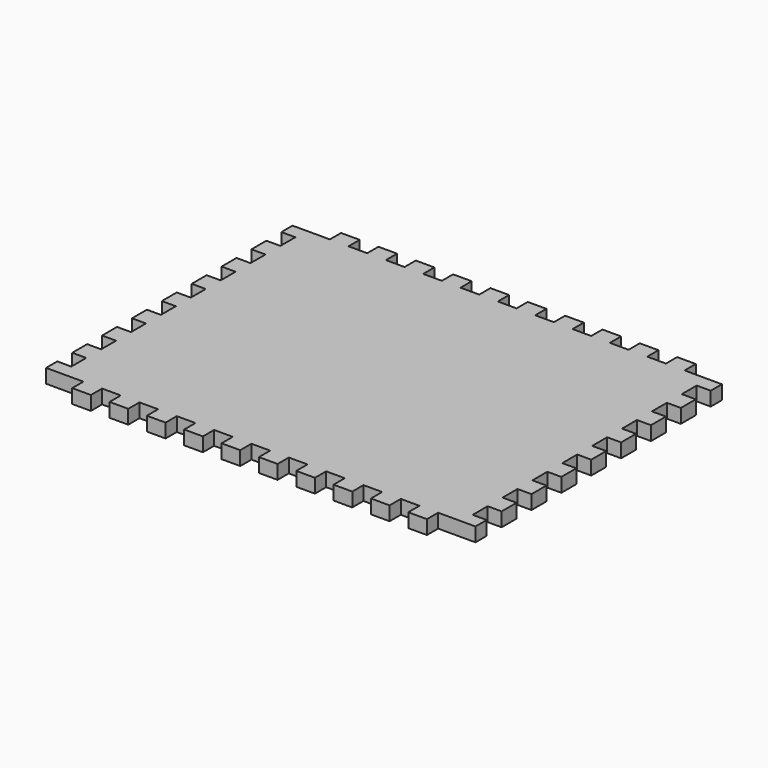
from build123d import *

# Parameters (mm, degrees)
F1_DEPTH = 9.525


with BuildPart() as f1:
    # F0 (on Top) → F1 (new body)
    with BuildSketch(Plane.XY):
        Polygon((63.5, 0), (50.8, 0), (50.8, -9.525), (38.1, -9.525), (38.1, 0), (25.4, 0), (25.4, -9.525), (0, -9.525), (0, -19.05), (9.525, -19.05), (9.525, -31.75), (0, -31.75), (0, -44.45), (9.525, -44.45), (9.525, -57.15), (0, -57.15), (0, -69.85), (9.525, -69.85), (9.525, -82.55), (0, -82.55), (0, -95.25), (9.525, -95.25), (9.525, -107.95), (0, -107.95), (0, -120.65), (9.525, -120.65), (9.525, -133.35), (0, -133.35), (0, -146.05), (9.525, -146.05), (9.525, -158.75), (0, -158.75), (0, -171.45), (9.525, -171.45), (9.525, -184.15), (0, -184.15), (0, -196.85), (9.525, -196.85), (9.525, -209.55), (0, -209.55), (0, -219.075), (25.4, -219.075), (25.4, -228.6), (38.1, -228.6), (38.1, -219.075), (50.8, -219.075), (50.8, -228.6), (63.5, -228.6), (63.5, -219.075), (76.2, -219.075), (76.2, -228.6), (88.9, -228.6), (88.9, -219.075), (101.6, -219.075), (101.6, -228.6), (114.3, -228.6), (114.3, -219.075), (127, -219.075), (127, -228.6), (139.7, -228.6), (139.7, -219.075), (152.4, -219.075), (152.4, -228.6), (165.1, -228.6), (165.1, -219.075), (177.8, -219.075), (177.8, -228.6), (190.5, -228.6), (190.5, -219.075), (203.2, -219.075), (203.2, -228.6), (215.9, -228.6), (215.9, -219.075), (228.6, -219.075), (228.6, -228.6), (241.3, -228.6), (241.3, -219.075), (254, -219.075), (254, -228.6), (266.7, -228.6), (266.7, -219.075), (292.1, -219.075), (292.1, -209.55), (282.575, -209.55), (282.575, -196.85), (292.1, -196.85), (292.1, -184.15), (282.575, -184.15), (282.575, -171.45), (292.1, -171.45), (292.1, -158.75), (282.575, -158.75), (282.575, -146.05), (292.1, -146.05), (292.1, -133.35), (282.575, -133.35), (282.575, -120.65), (292.1, -120.65), (292.1, -107.95), (282.575, -107.95), (282.575, -95.25), (292.1, -95.25), (292.1, -82.55), (282.575, -82.55), (282.575, -69.85), (292.1, -69.85), (292.1, -57.15), (282.575, -57.15), (282.575, -44.45), (292.1, -44.45), (292.1, -31.75), (282.575, -31.75), (282.575, -19.05), (292.1, -19.05), (292.1, -9.525), (266.7, -9.525), (266.7, 0), (254, 0), (254, -9.525), (241.3, -9.525), (241.3, 0), (228.6, 0), (228.6, -9.525), (215.9, -9.525), (215.9, 0), (203.2, 0), (203.2, -9.525), (190.5, -9.525), (190.5, 0), (177.8, 0), (177.8, -9.525), (165.1, -9.525), (165.1, 0), (152.4, 0), (152.4, -9.525), (139.7, -9.525), (139.7, 0), (127, 0), (127, -9.525), (114.3, -9.525), (114.3, 0), (101.6, 0), (101.6, -9.525), (88.9, -9.525), (88.9, 0), (76.2, 0), (76.2, -9.525), (63.5, -9.525), align=None)
    extrude(amount=F1_DEPTH)


solid = f1.part
